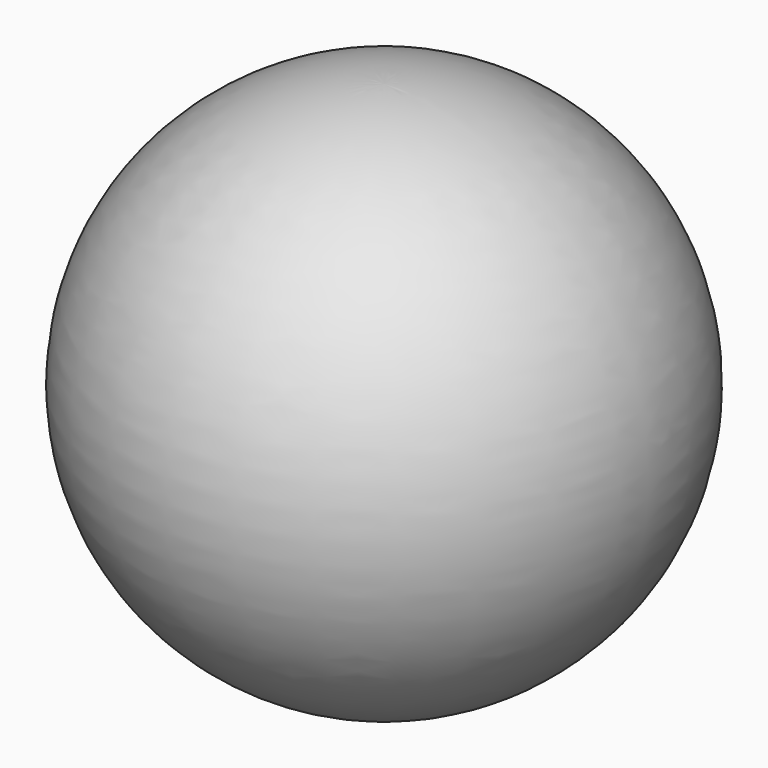
from build123d import *


with BuildPart() as f1:
    # F0 (on Front) → F1 (revolve)
    with BuildSketch(Plane.XZ):
        with BuildLine():
            Line((3.2004, -15.604242), (3.2004, -18.779242))
            ThreePointArc((3.2004, -18.779242), (18.98219, 1.605916), (0, 19.05))
            Line((0, 19.05), (0, -15.604242))
            Line((0, -15.604242), (3.2004, -15.604242))
        make_face()
    revolve(axis=Axis((0, 0, 0.154573), (0, 0, -1)))


solid = f1.part
